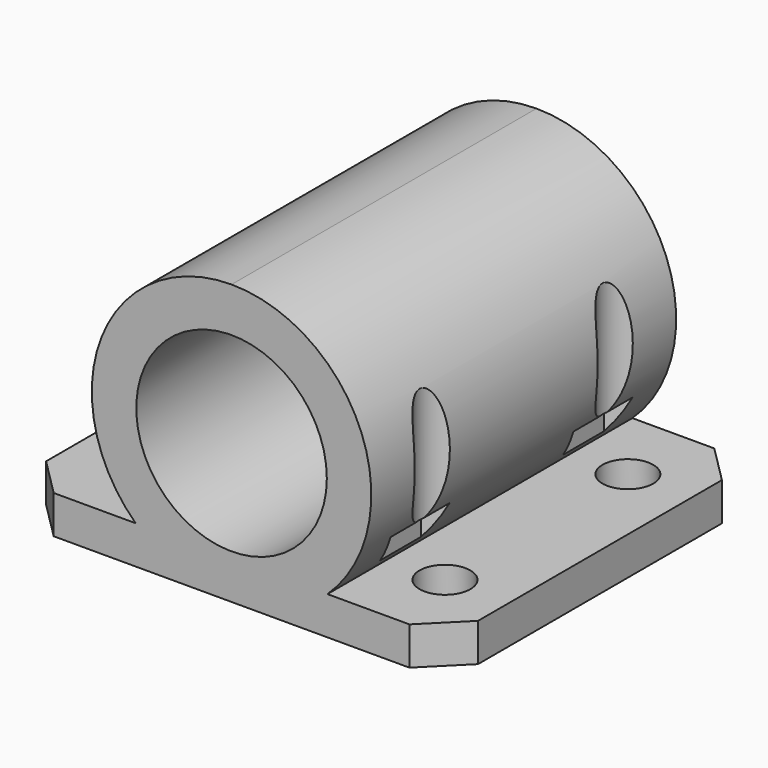
from build123d import *

# Parameters (mm, degrees)
SKETCH_W        = 34
SKETCH_H        = 30
PAD_DEPTH       = 22
SKETCH001_R     = 5.5
POCKET_DEPTH    = 30.001
SKETCH002_R     = 2
POCKET001_DEPTH = 22.001
CHAMFER_SIZE    = 3
SKETCH003_R     = 7.5
POCKET002_DEPTH = 24
POCKET003_DEPTH = 3.5


with BuildPart() as part:
    # Sketch → Pad (new body)
    with BuildSketch(Plane.XY):
        with Locations((17, 15)):
            Rectangle(SKETCH_W, SKETCH_H)
    extrude(amount=PAD_DEPTH)

    # Sketch001 (on Face1 of Pad) → Pocket (cut, through all)
    with BuildSketch(Plane.XZ):
        with Locations((17, 11)):
            Circle(SKETCH001_R)
        with BuildLine():
            ThreePointArc((17, 22), (6.777476, 15.062019), (9.450166, 3))
            Line((0, 3), (9.450166, 3))
            Line((0, 22), (0, 3))
            Line((17, 22), (0, 22))
        make_face()
        with BuildLine():
            ThreePointArc((24.549834, 3), (27.222524, 15.062019), (17, 22))
            Line((17, 22), (34, 22))
            Line((34, 22), (34, 3))
            Line((34, 3), (24.549834, 3))
        make_face()
    extrude(amount=-POCKET_DEPTH, mode=Mode.SUBTRACT)

    # Sketch002 (on Face2 of Pocket) → Pocket001 (cut, through all)
    with BuildSketch(Plane(origin=(0, 0, 0), x_dir=(1, 0, 0), z_dir=(0, 0, -1))):
        with Locations((5, -6)):
            Circle(SKETCH002_R)
        with Locations((29, -6)):
            Circle(SKETCH002_R)
        with Locations((29, -24)):
            Circle(SKETCH002_R)
        with Locations((5, -24)):
            Circle(SKETCH002_R)
    extrude(amount=-POCKET001_DEPTH, mode=Mode.SUBTRACT)

    # Chamfer
    chamfer_edges = [part.edges().sort_by_distance(p)[0] for p in [
        (34, 0, 1.5),
        (34, 30, 1.5),
        (0, 30, 1.5),
        (0, 0, 1.5),
    ]]
    chamfer(chamfer_edges, length=CHAMFER_SIZE)

    # Sketch003 (on Face1 of Chamfer) → Pocket002 (cut)
    with BuildSketch(Plane.XZ):
        with Locations((17, 11)):
            Circle(SKETCH003_R)
    extrude(amount=-POCKET002_DEPTH, mode=Mode.SUBTRACT)

    # Sketch004 (on Face6 of Pocket002) → Pocket003 (cut)
    with BuildSketch(Plane.XY.offset(3)):
        Polygon((5, 28.041452), (1.5, 26.020726), (1.5, 21.979274), (5, 19.958548), (8.5, 21.979274), (8.5, 26.020726), align=None)
        Polygon((32.5, 26.020726), (29, 28.041452), (25.5, 26.020726), (25.5, 21.979274), (29, 19.958548), (32.5, 21.979274), align=None)
        Polygon((32.5, 8.020726), (29, 10.041452), (25.5, 8.020726), (25.5, 3.979274), (29, 1.958548), (32.5, 3.979274), align=None)
        Polygon((5, 10.041452), (1.5, 8.020726), (1.5, 3.979274), (5, 1.958548), (8.5, 3.979274), (8.5, 8.020726), align=None)
    extrude(amount=POCKET003_DEPTH, mode=Mode.SUBTRACT)


solid = part.part
